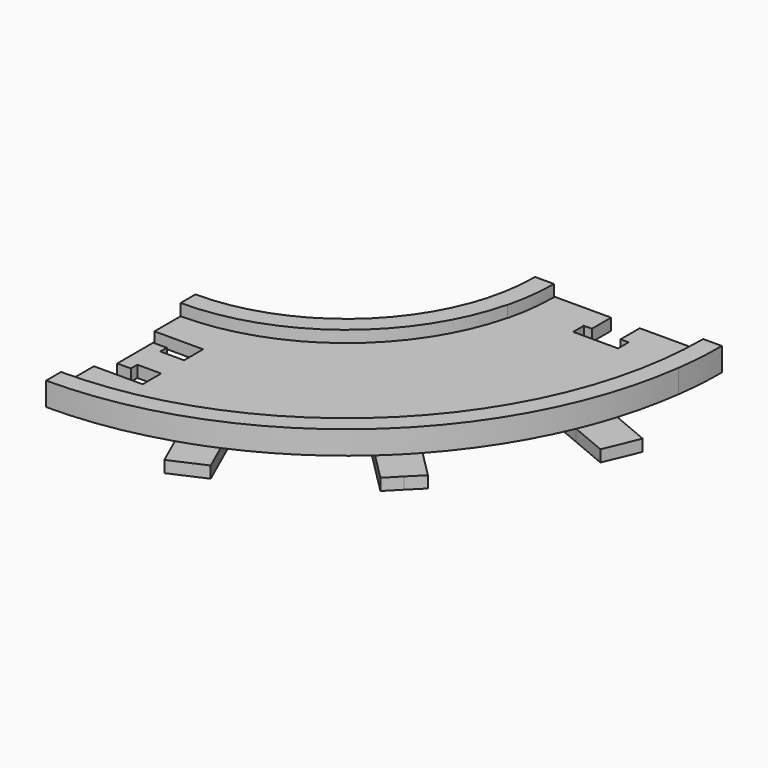
from build123d import *

# Parameters (mm, degrees)
F1_DEPTH  = 3.175
F4_DEPTH  = 3.175
F6_DEPTH  = 6.35
F7_DEPTH  = 3.175
F9_DEPTH  = 25.4
F11_DEPTH = 3.175
F13_DEPTH = 3.175
F14_DEPTH = 25.4


with BuildPart() as f1:
    # F0 (on Top) → F1 (new body)
    with BuildSketch(Plane.XY):
        with BuildLine():
            Line((0, -51.2956328023), (0, -102.09075941))
            ThreePointArc((0, -102.09075941), (72.1890682753, -72.1890682753), (102.09075941, 0))
            Line((102.09075941, 0), (51.2956328023, 0))
            ThreePointArc((51.2956328023, 0), (36.2714897998, -36.2714897998), (0, -51.2956328023))
        make_face()
    extrude(amount=F1_DEPTH)

    # F3 (on face) → F4 (join)
    with BuildSketch(Plane.XY.offset(3.175)):
        with BuildLine():
            ThreePointArc((0, -56.3756328023), (39.8635922482, -39.8635922482), (56.3756328023, 0))
            Line((56.3756328023, 0), (51.3330261441, 0))
            ThreePointArc((51.3330261441, 0), (36.2979308853, -36.2979308853), (0, -51.3330261441))
            Line((0, -51.3330261441), (0, -56.3756328023))
        make_face()
        with BuildLine():
            Line((102.09075941, 0), (97.01075941, 0))
            ThreePointArc((97.01075941, 0), (68.5969658269, -68.5969658269), (0, -97.01075941))
            Line((0, -97.01075941), (0, -102.09075941))
            ThreePointArc((0, -102.09075941), (72.1890682753, -72.1890682753), (102.09075941, 0))
        make_face()
    extrude(amount=F4_DEPTH)

    # F5 (on Top) → F6 (join)
    with BuildSketch(Plane.XY):
        with BuildLine():
            ThreePointArc((54.7619331998, -13.660392724), (56.0189261095, -6.8815386855), (56.4400182242, 0))
            Line((56.4400182242, 0), (51.3051767249, 0))
            ThreePointArc((51.3051767249, 0), (50.8400637591, -6.8926827684), (49.4531579316, -13.660392724))
            Line((49.4531579316, -13.660392724), (54.7619331998, -13.660392724))
        make_face()
        with BuildLine():
            Line((102.1051767249, 0), (97.1390098326, 0))
            ThreePointArc((97.1390098326, 0), (96.8973822865, -6.8472284381), (96.1737017167, -13.660392724))
            Line((96.1737017167, -13.660392724), (101.1872560388, -13.660392724))
            ThreePointArc((101.1872560388, -13.660392724), (101.8754380952, -6.8455990928), (102.1051767249, 0))
        make_face()
    extrude(amount=F6_DEPTH)

    # F2 (on Top) → F7 (join)
    with BuildSketch(Plane.XY):
        Polygon((65.3862244444, -13.4132344524), (65.3862244444, 0.2373858813), (51.3049019501, 0.2373858813), (51.3049019501, -13.4632168472), align=None)
        Polygon((100.5855267867, 0.2373858813), (85.8938746733, 0.2373858813), (85.9641355587, -13.4132344524), (100.5855267867, -13.4132344524), align=None)
    extrude(amount=F7_DEPTH)

    # F8 (on face) → F9 (cut)
    with BuildSketch(Plane.XY.offset(3.175)):
        Polygon((0, -85.8303158734), (13.2304336887, -85.8303158734), (13.2304336887, -79.5142199461), (6.7552071823, -79.5142199461), (6.7552071823, -81.7240199461), (3.0578118576, -81.7240199461), (3.0578118576, -69.5130521654), (6.7552071823, -69.5130521654), (6.7552071823, -71.7228521654), (13.2304336887, -71.7228521654), (13.2304336887, -65.2524047592), (0, -65.2524047592), align=None)
    extrude(amount=-F9_DEPTH, mode=Mode.SUBTRACT)

    # F10 (on face) → F11 (join)
    with BuildSketch(Plane(origin=(0, 0, 0), x_dir=(1, 0, 0), z_dir=(0, 0, -1))):
        with BuildLine():
            ThreePointArc((39.6434592285, 32.5520826521), (37.980845771, 34.4774897449), (36.2248193412, 36.3181002847))
            Line((36.2248193412, 36.3181002847), (29.0498583475, 29.1246633635))
            Line((29.0498583475, 29.1246633635), (32.646576808, 25.5371828667))
            Line((32.646576808, 25.5371828667), (39.6434592285, 32.5520826521))
        make_face()
        with BuildLine():
            Line((29.0498583475, 29.1246633635), (36.2248193412, 36.3181002847))
            ThreePointArc((36.2248193412, 36.3181002847), (34.3796988436, 38.0693873344), (32.4500223073, 39.7270436459))
            Line((32.4500223073, 39.7270436459), (25.4531398869, 32.7121438604))
            Line((25.4531398869, 32.7121438604), (29.0498583475, 29.1246633635))
        make_face()
        with BuildLine():
            Line((36.2248193412, 36.3181002847), (72.0961827352, 72.2818344532))
            ThreePointArc((72.0961827352, 72.2818344532), (70.2749350461, 74.0537417095), (68.4101530773, 75.7797737714))
            Line((68.4101530773, 75.7797737714), (32.4500223073, 39.7270436459))
            ThreePointArc((32.4500223073, 39.7270436459), (34.3796988436, 38.0693873344), (36.2248193412, 36.3181002847))
        make_face()
        with BuildLine():
            ThreePointArc((75.6035899985, 68.6048127777), (73.8727679087, 70.4651496728), (72.0961827352, 72.2818344532))
            Line((72.0961827352, 72.2818344532), (36.2248193412, 36.3181002847))
            ThreePointArc((36.2248193412, 36.3181002847), (37.980845771, 34.4774897449), (39.6434592285, 32.5520826521))
            Line((39.6434592285, 32.5520826521), (75.6035899985, 68.6048127777))
        make_face()
        with BuildLine():
            Line((79.271143729, 79.4752713743), (72.0961827352, 72.2818344532))
            ThreePointArc((72.0961827352, 72.2818344532), (73.8727679087, 70.4651496728), (75.6035899985, 68.6048127777))
            Line((75.6035899985, 68.6048127777), (82.8785053866, 75.8984614814))
            Line((82.8785053866, 75.8984614814), (79.271143729, 79.4752713743))
        make_face()
        with BuildLine():
            ThreePointArc((68.4101530773, 75.7797737714), (70.2749350461, 74.0537417095), (72.0961827352, 72.2818344532))
            Line((72.0961827352, 72.2818344532), (79.271143729, 79.4752713743))
            Line((79.271143729, 79.4752713743), (75.7328631666, 83.1213402502))
            Line((75.7328631666, 83.1213402502), (68.4101530773, 75.7797737714))
        make_face()
        with BuildLine():
            Line((20.0341812257, 47.2215366883), (40.6881574418, 93.6322433828))
            ThreePointArc((40.6881574418, 93.6322433828), (35.9596571955, 95.5480309127), (31.1413521737, 97.2251991086))
            Line((31.1413521737, 97.2251991086), (10.2418471319, 50.2627746142))
            ThreePointArc((10.2418471319, 50.2627746142), (15.2141958482, 48.9874493037), (20.0341812257, 47.2215366883))
        make_face()
        with BuildLine():
            ThreePointArc((31.1413521737, 97.2251991086), (35.9596571955, 95.5480309127), (40.6881574418, 93.6322433828))
            Line((40.6881574418, 93.6322433828), (44.0618023276, 101.2130230665))
            Line((44.0618023276, 101.2130230665), (34.7585338749, 105.353220427))
            Line((34.7585338749, 105.353220427), (31.1413521737, 97.2251991086))
        make_face()
        with BuildLine():
            Line((16.5176168084, 39.3196083605), (20.0341812257, 47.2215366883))
            ThreePointArc((20.0341812257, 47.2215366883), (15.2141958482, 48.9874493037), (10.2418471319, 50.2627746142))
            Line((10.2418471319, 50.2627746142), (7.7137911807, 44.5820833017))
            Line((7.7137911807, 44.5820833017), (16.5176168084, 39.3196083605))
        make_face()
        with BuildLine():
            ThreePointArc((50.2968928634, 10.0729594896), (49.0339423103, 15.0636796999), (47.2771132537, 19.902675875))
            Line((47.2771132537, 19.902675875), (38.7149937451, 16.3121093065))
            Line((38.7149937451, 16.3121093065), (43.1567628434, 7.0787111473))
            Line((43.1567628434, 7.0787111473), (50.2968928634, 10.0729594896))
        make_face()
        with BuildLine():
            ThreePointArc((97.6098508897, 29.9138791566), (95.9858944102, 34.7740022313), (94.1201154327, 39.5465172658))
            Line((94.1201154327, 39.5465172658), (47.2771132537, 19.902675875))
            ThreePointArc((47.2771132537, 19.902675875), (49.0339423103, 15.0636796999), (50.2968928634, 10.0729594896))
            Line((50.2968928634, 10.0729594896), (97.6098508897, 29.9138791566))
        make_face()
        with BuildLine():
            Line((104.0109246969, 43.6942763627), (94.1201154327, 39.5465172658))
            ThreePointArc((94.1201154327, 39.5465172658), (95.9858944102, 34.7740022313), (97.6098508897, 29.9138791566))
            Line((97.6098508897, 29.9138791566), (107.9681979582, 34.2577025116))
            Line((107.9681979582, 34.2577025116), (104.0109246969, 43.6942763627))
        make_face()
    extrude(amount=F11_DEPTH)

    # F12 (on face) → F13 (join)
    with BuildSketch(Plane(origin=(0, 0, 0), x_dir=(1, 0, 0), z_dir=(0, 0, -1))):
        Polygon((65.3862244444, 0), (65.3862244444, -0.2373858813), (85.8938746733, -0.2373858813), (85.8950965183, 0), align=None)
    extrude(amount=-F13_DEPTH)

    # F2 (on Top) → F14 (cut)
    with BuildSketch(Plane.XY):
        Polygon((81.7886919434, -6.2948371671), (79.5788919434, -6.2948371671), (79.5788919434, 0.2373858813), (71.7875241627, 0.2373858813), (71.7875241627, -6.2948371671), (69.5777241627, -6.2948371671), (69.5777241627, -9.9109848417), (81.7886919434, -9.9109848417), align=None)
    extrude(amount=F14_DEPTH, mode=Mode.SUBTRACT)


solid = f1.part
